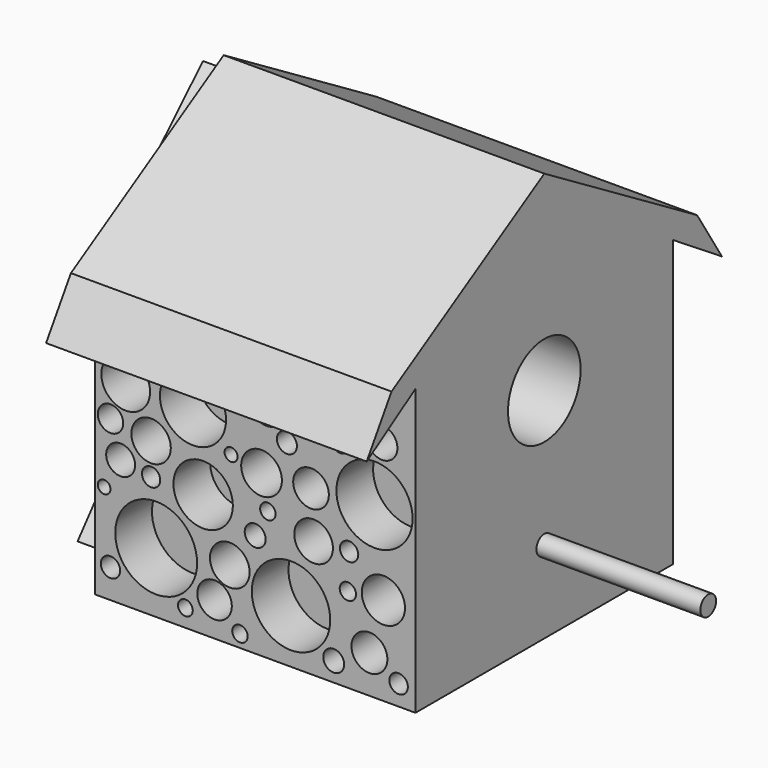
from build123d import *

# Parameters (mm, degrees)
F0_R      = 12.805228
F1_DEPTH  = 13.462
F2_R      = 2.775496
F3_DEPTH  = 71.628
F4_DEPTH  = 25.4
F5_DEPTH  = 25.4
F7_DEPTH  = 65.024
F8_R      = 11.544918
F8_R_2    = 5.557541
F8_R_3    = 8.380392
F8_R_4    = 9.320439
F8_R_5    = 10.745749
F8_R_6    = 2.177584
F8_R_7    = 5.592023
F8_R_8    = 5.45278
F8_R_9    = 2.581521
F8_R_10   = 2.292272
F8_R_11   = 6.096395
F8_R_12   = 5.062779
F8_R_13   = 2.606224
F8_R_14   = 5.024667
F8_R_15   = 1.825412
F8_R_16   = 5.73906
F8_R_17   = 5.381808
F8_R_18   = 3.280323
F8_R_19   = 4.310801
F8_R_20   = 2.82533
F8_R_21   = 6.868943
F8_R_22   = 3.579928
F8_R_23   = 2.581522
F8_R_24   = 4.081744
F8_R_25   = 4.869226
F8_R_26   = 2.95209
F8_R_27   = 2.177582
F8_R_28   = 2.726392
F8_R_29   = 1.789965
F8_R_30   = 2.087438
F8_R_31   = 11.06868
F8_R_32   = 2.952267
F9_DEPTH  = 12.954
F10_W     = 19.802404
F10_H     = 13.06525
F10_W_2   = 20.198451
F10_H_2   = 12.933277
F11_DEPTH = 4.064
F13_DEPTH = 5.842


with BuildPart() as f1:
    # F0 (on Right) → F1 (new body)
    with BuildSketch(Plane.YZ):
        Polygon((-62.617041, 14.065981), (-45.4152, 25.146002), (0, 50.444398), (45.4152, 25.146002), (62.617041, 14.065981), (53.866774, 27.880948), (0, 60.095742), (-53.866774, 27.880948), align=None)
        Polygon((0, 50.444398), (-45.4152, 25.146002), (-45.4152, -55.321198), (45.415204, -55.321198), (45.4152, 25.146002), align=None)
        with Locations((0, 6.2484)):
            Circle(F0_R, mode=Mode.SUBTRACT)
    extrude(amount=F1_DEPTH)

    # F2 (on Right) → F3 (join)
    with BuildSketch(Plane.YZ):
        with Locations((0, -32.101408)):
            Circle(F2_R)
    extrude(amount=F3_DEPTH)

    # F0 (on Right) → F4 (join)
    with BuildSketch(Plane.YZ):
        Polygon((-62.617041, 14.065981), (-45.4152, 25.146002), (0, 50.444398), (45.4152, 25.146002), (62.617041, 14.065981), (53.866774, 27.880948), (0, 60.095742), (-53.866774, 27.880948), align=None)
        Polygon((0, 50.444398), (-45.4152, 25.146002), (-45.4152, -55.321198), (45.415204, -55.321198), (45.4152, 25.146002), align=None)
        with Locations((0, 6.2484)):
            Circle(F0_R, mode=Mode.SUBTRACT)
    extrude(amount=F4_DEPTH)

    # F0 (on Right) → F5 (join)
    with BuildSketch(Plane.YZ):
        Polygon((-62.617041, 14.065981), (-45.4152, 25.146002), (0, 50.444398), (45.4152, 25.146002), (62.617041, 14.065981), (53.866774, 27.880948), (0, 60.095742), (-53.866774, 27.880948), align=None)
        Polygon((0, 50.444398), (-45.4152, 25.146002), (-45.4152, -55.321198), (45.415204, -55.321198), (45.4152, 25.146002), align=None)
        with Locations((0, 6.2484)):
            Circle(F0_R, mode=Mode.SUBTRACT)
    extrude(amount=F5_DEPTH)

    # F6 (on face) → F7 (join)
    with BuildSketch(Plane(origin=(0, 0, 0), x_dir=(0, -1, 0), z_dir=(-1, 0, 0))):
        Polygon((53.866774, 27.880948), (0, 60.095742), (-53.866774, 27.880948), (-62.617041, 14.065981), (-45.4152, 25.146002), (-45.415204, -55.321198), (45.4152, -55.321198), (45.4152, 25.146002), (62.617041, 14.065981), align=None)
    extrude(amount=F7_DEPTH)

    # F8 (on face) → F9 (cut)
    with BuildSketch(Plane.XZ.offset(45.4152)):
        with Locations((-47.735427, -38.178124)):
            Circle(F8_R)
        with Locations((-49.167398, -12.04466)):
            Circle(F8_R_2)
        with Locations((-34.489699, -20.636484)):
            Circle(F8_R_3)
        with Locations((-37.353639, 0)):
            Circle(F8_R_4)
        with Locations((13.839315, -7.390756)):
            Circle(F8_R_5)
        with Locations((-16.23207, -18.846521)):
            Circle(F8_R_6)
        with Locations((-26.971854, -35.672177)):
            Circle(F8_R_7)
        with Locations((-3.344336, -22.068456)):
            Circle(F8_R_8)
        with Locations((6.679456, -21.35247)):
            Circle(F8_R_9)
        with Locations((6.321463, -31.376265)):
            Circle(F8_R_10)
        with Locations((16.345263, -30.302286)):
            Circle(F8_R_11)
        with Locations((12.407344, -44.621993)):
            Circle(F8_R_12)
        with Locations((20.641174, -49.63389)):
            Circle(F8_R_13)
        with Locations((-4.060321, -9.180719)):
            Circle(F8_R_14)
        with Locations((-26.613861, -8.106741)):
            Circle(F8_R_15)
        with Locations((-18.022032, -9.896705)):
            Circle(F8_R_16)
        with Locations((-16.590061, 7.644936)):
            Circle(F8_R_17)
        with Locations((0, 9.434899)):
            Circle(F8_R_18)
        with Locations((15.98727, 8.718913)):
            Circle(F8_R_19)
        with Locations((4.173508, 4.423001)):
            Circle(F8_R_6)
        with Locations((-10.86218, 0)):
            Circle(F8_R_20)
        with Locations((-56.327246, 0)):
            Circle(F8_R_21)
        with Locations((-60.623161, -10.254697)):
            Circle(F8_R_22)
        with Locations((-49.167398, -20.994477)):
            Circle(F8_R_23)
        with Locations((-57.759218, -19.562507)):
            Circle(F8_R_24)
        with Locations((-31.267766, -45.695972)):
            Circle(F8_R_25)
        with Locations((-19.812003, -26.006375)):
            Circle(F8_R_26)
        with Locations((-24.107913, -51.781844)):
            Circle(F8_R_27)
        with Locations((-60.623161, -47.12794)):
            Circle(F8_R_28)
        with Locations((-62.413126, -27.796337)):
            Circle(F8_R_29)
        with Locations((-39.501593, -50.349873)):
            Circle(F8_R_30)
        with Locations((-9.707933, -40.136304)):
            Circle(F8_R_31)
        with Locations((2.335547, -49.885787)):
            Circle(F8_R_32)
    extrude(amount=-F9_DEPTH, mode=Mode.SUBTRACT)

    # F10 (on face) → F11 (join)
    with BuildSketch(Plane(origin=(0, 45.415201, 2e-06), x_dir=(-1, 0, 0), z_dir=(0, 1, 0))):
        Polygon((41.411106, -3.204356), (-7.916423, -3.578231), (-7.916423, -37.325934), (41.411106, -37.325934), align=None)
        Polygon((-5.569554, -34.437824), (-5.569554, -22.560325), (-5.569554, -21.900464), (14.496882, -21.900464), (14.496882, -23.220185), (14.496882, -34.437824), (13.572769, -34.437824), align=None, mode=Mode.SUBTRACT)
        Polygon((17.929297, -34.701772), (17.929297, -21.504547), (37.7317, -21.768492), (37.7317, -34.701772), align=None, mode=Mode.SUBTRACT)
        with Locations((4.331648, -12.992339)):
            Rectangle(F10_W, F10_H, mode=Mode.SUBTRACT)
        with Locations((28.292554, -12.926353)):
            Rectangle(F10_W_2, F10_H_2, mode=Mode.SUBTRACT)
    extrude(amount=F11_DEPTH)

    # F12 (on face) → F13 (join)
    with BuildSketch(Plane(origin=(-65.024, 0, 0), x_dir=(0, -1, 0), z_dir=(-1, 0, 0))):
        Polygon((-43.786074, -20.438465), (2.748472, 0), (-38.219031, 30.080867), align=None)
        Polygon((3.604237, -53.453038), (3.604237, -3.573573), (-39.592647, -28.513306), align=None)
        Polygon((22.778634, -18.640616), (11.063425, -50.157975), (44.215863, -44.544963), align=None)
        Polygon((9.034589, -19.765744), (38.46338, -0.555568), (7.112485, 15.325424), align=None)
        Polygon((0, 56.749567), (-10.859401, 15.269949), (30.492702, 26.605241), align=None)
    extrude(amount=F13_DEPTH)


solid = f1.part
